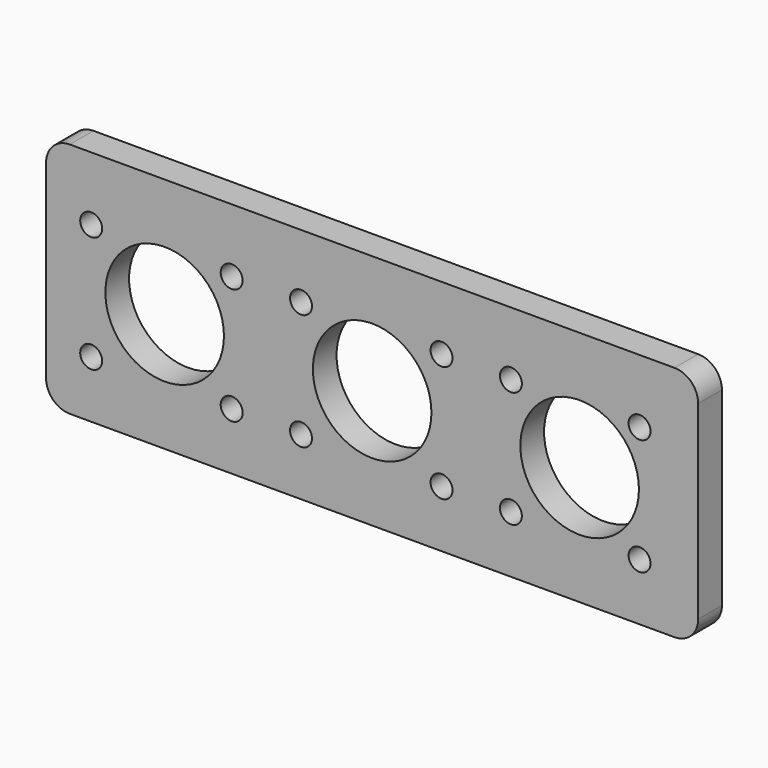
from build123d import *

# Parameters (mm, degrees)
F0_W          = 139.7
F0_H          = 50.8
F0_R          = 12.7
F1_DEPTH      = 6.35
F2_R          = 5.08
F3_R          = 2.3495
F4_DEPTH      = 25.4
F4_DEPTH_BACK = 25.4


with BuildPart() as f1:
    # F0 (on Front) → F1 (new body)
    with BuildSketch(Plane.XZ):
        with Locations((-3.385224, -11.762154)):
            Rectangle(F0_W, F0_H)
        with Locations((-47.835224, -11.762154)):
            Circle(F0_R, mode=Mode.SUBTRACT)
        with Locations((-3.385224, -11.762154)):
            Circle(F0_R, mode=Mode.SUBTRACT)
        with Locations((41.064776, -11.762154)):
            Circle(F0_R, mode=Mode.SUBTRACT)
    extrude(amount=F1_DEPTH)

    # F2
    f2_edges = [f1.edges().sort_by_distance(p)[0] for p in [
        (-73.235224, -3.175, 13.637846),
        (66.464776, -3.175, 13.637846),
        (66.464776, -3.175, -37.162154),
        (-73.235224, -3.175, -37.162154),
    ]]
    fillet(f2_edges, radius=F2_R)

    # F3 (on face) → F4 (cut, two sides)
    with BuildSketch(Plane.XZ.offset(6.35)) as f4_sk:
        with Locations((-63.577805, 0)):
            Circle(F3_R)
        with Locations((-33.478805, 0)):
            Circle(F3_R)
        with Locations((-63.577805, -24.933804)):
            Circle(F3_R)
        with Locations((-33.478805, -24.933804)):
            Circle(F3_R)
        with Locations((-18.619805, 0)):
            Circle(F3_R)
        with Locations((11.479195, 0)):
            Circle(F3_R)
        with Locations((-18.619805, -24.933804)):
            Circle(F3_R)
        with Locations((11.479195, -24.933804)):
            Circle(F3_R)
        with Locations((26.338195, 0)):
            Circle(F3_R)
        with Locations((53.897195, 0)):
            Circle(F3_R)
        with Locations((26.338195, -24.933804)):
            Circle(F3_R)
        with Locations((53.897195, -24.933804)):
            Circle(F3_R)
    extrude(amount=-F4_DEPTH, mode=Mode.SUBTRACT)
    extrude(f4_sk.sketch, amount=-F4_DEPTH_BACK, mode=Mode.SUBTRACT)


solid = f1.part
